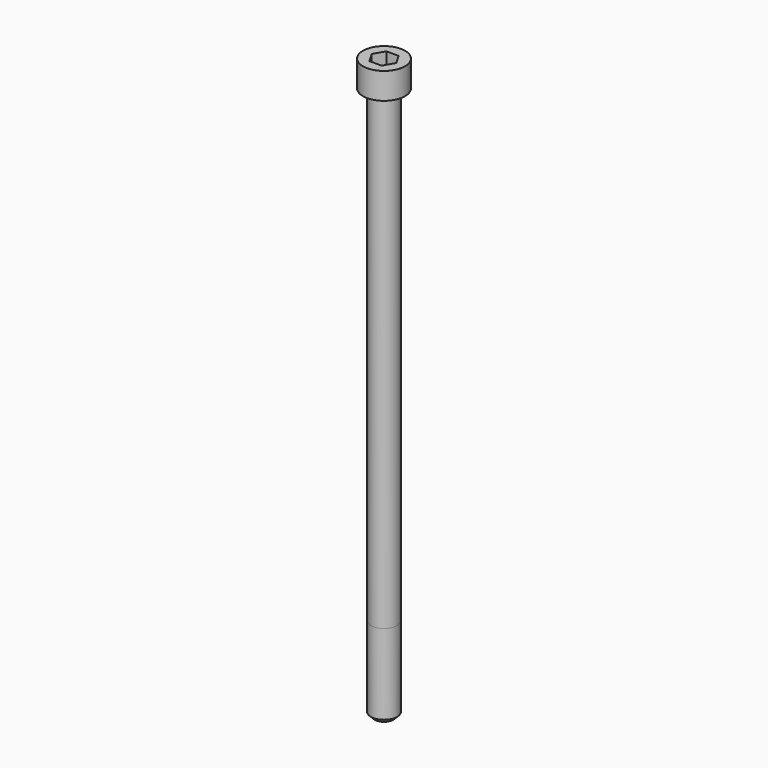
from build123d import *

# Parameters (mm, degrees)
POCKET_DEPTH = 8.07


with BuildPart() as part:
    # Sketch → Revolve (revolve)
    with BuildSketch(Plane.YZ):
        with BuildLine():
            Line((4.999, 0), (8, 0))
            Line((8, 0), (8, 9.97229))
            ThreePointArc((8, 9.97229), (7.991884, 9.991884), (7.97229, 10))
            Line((7.97229, 10), (0, 10))
            Line((0, -210), (0, 10))
            Line((3.5, -210), (0, -210))
            Line((5, -208.5), (3.5, -210))
            Line((5, -178), (5, -208.5))
            Line((4.999, 0), (5, -178))
        make_face()
    revolve(axis=Axis((0, 0, 0), (0, 0, 1)))

    # Sketch001 → Pocket (cut)
    with BuildSketch(Plane.XY.offset(10)):
        Polygon((4.659217, 0), (2.329608, 4.035), (-2.329608, 4.035), (-4.659217, 0), (-2.329608, -4.035), (2.329608, -4.035), align=None)
    extrude(amount=-POCKET_DEPTH, mode=Mode.SUBTRACT)


solid = part.part
